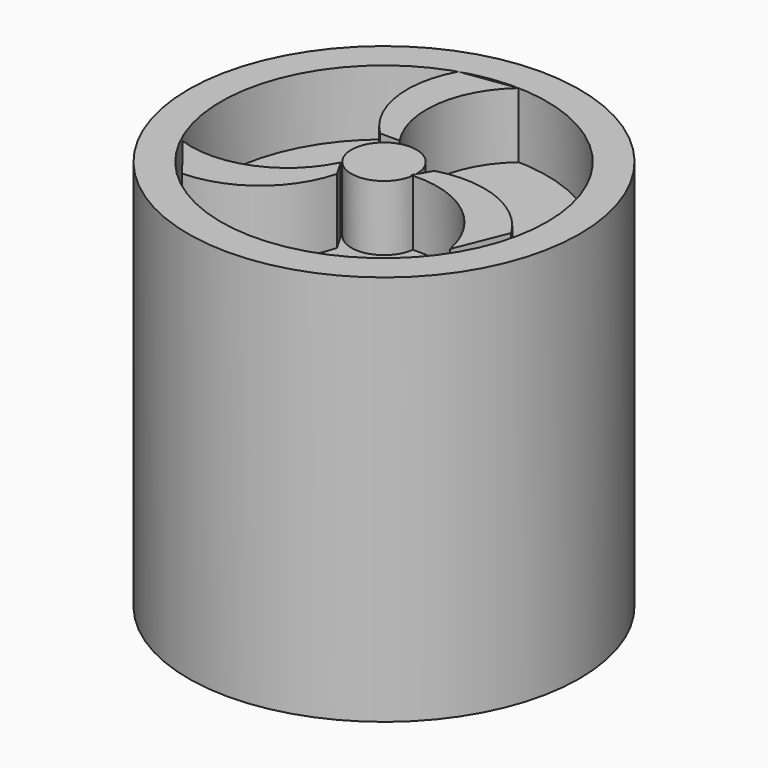
from build123d import *

# Parameters (mm, degrees)
F0_R     = 18
F1_DEPTH = 36
F2_R     = 15
F3_DEPTH = 6
F5_DEPTH = 6


with BuildPart() as f1:
    # F0 (on Top) → F1 (new body)
    with BuildSketch(Plane.XY):
        Circle(F0_R)
    extrude(amount=F1_DEPTH)

    # F2 (on face) → F3 (cut)
    with BuildSketch(Plane.XY.offset(36)):
        Circle(F2_R)
    extrude(amount=-F3_DEPTH, mode=Mode.SUBTRACT)


with BuildPart() as f5:
    # F4 (on face) → F5 (new body)
    with BuildSketch(Plane.XY.offset(30)):
        with BuildLine():
            Line((-13.30305, -6.52112), (-10.185073, -10.48913))
            ThreePointArc((-10.185073, -10.48913), (-4.663397, -8.503883), (-1.461136, -3.587011))
            Line((-1.461136, -3.587011), (-2.363547, -2.023989))
            ThreePointArc((-2.363547, -2.023989), (-6.977831, -6.353522), (-13.30305, -6.52112))
        make_face()
        with BuildLine():
            Line((12.181258, -7.629617), (14.058667, -2.945364))
            ThreePointArc((14.058667, -2.945364), (9.578554, 0.843923), (3.719288, 1.158727))
            Line((3.719288, 1.158727), (2.998667, -0.089424))
            ThreePointArc((2.998667, -0.089424), (2.990193, -0.242374), (2.973923, -0.394692))
            ThreePointArc((2.973923, -0.394692), (8.935577, -2.283948), (12.181258, -7.629617))
        make_face()
        with BuildLine():
            ThreePointArc((3, 0), (-2.993474, 0.197776), (2.973923, -0.394692))
            ThreePointArc((2.973923, -0.394692), (2.895379, -0.399146), (2.816876, -0.404295))
            Line((2.816876, -0.404295), (2.998667, -0.089424))
            ThreePointArc((2.998667, -0.089424), (2.999667, -0.044717), (3, 0))
        make_face()
        with BuildLine():
            Line((0.39909, 14.99469), (-4.596296, 14.278448))
            ThreePointArc((-4.596296, 14.278448), (-5.637859, 8.503912), (-2.980854, 3.272236))
            Line((-2.980854, 3.272236), (-1.176032, 3.272236))
            ThreePointArc((-1.176032, 3.272236), (-2.618375, 9.433091), (0.39909, 14.99469))
        make_face()
    extrude(amount=F5_DEPTH)


solid = Compound([f1.part, f5.part])
